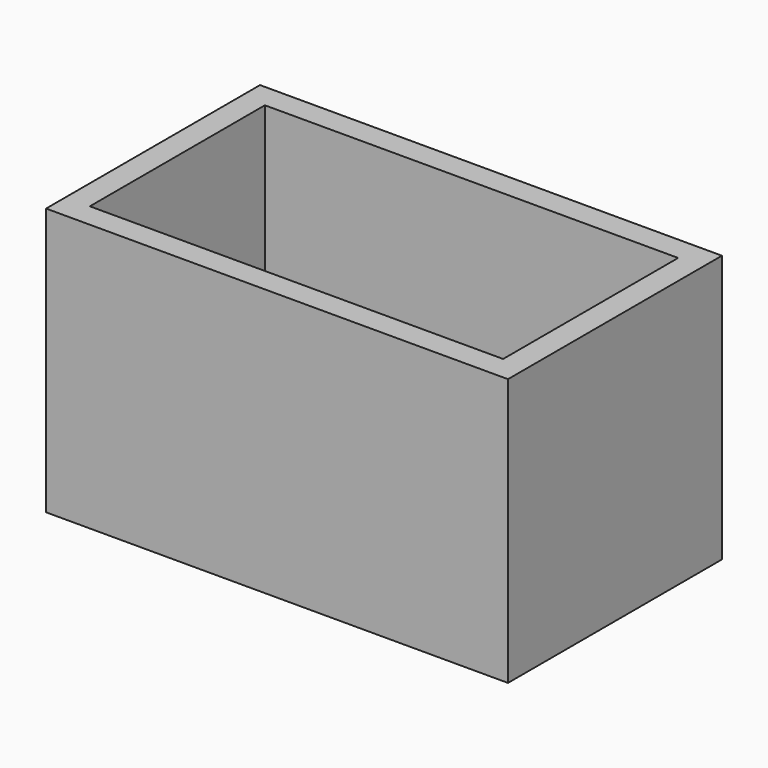
from build123d import *

# Parameters (mm, degrees)
F0_W     = 43.18
F0_H     = 2.54
F0_W_2   = 2.54
F0_H_2   = 22.86
F1_DEPTH = 26.67
F2_W     = 48.26
F2_H     = 27.94
F2_R     = 1.5875
F3_DEPTH = 1.27


with BuildPart() as f1:
    # F0 (on Top) → F1 (new body)
    with BuildSketch(Plane.XY):
        with Locations((-21.59, 26.67)):
            Rectangle(F0_W, F0_H)
        with Locations((-44.45, 26.67)):
            Rectangle(F0_W_2, F0_H)
        with Locations((-44.45, 13.97)):
            Rectangle(F0_W_2, F0_H_2)
        with Locations((-44.45, 1.27)):
            Rectangle(F0_W_2, F0_H)
        with Locations((-21.59, 1.27)):
            Rectangle(F0_W, F0_H)
        with Locations((1.27, 1.27)):
            Rectangle(F0_W_2, F0_H)
        with Locations((1.27, 13.97)):
            Rectangle(F0_W_2, F0_H_2)
        with Locations((1.27, 26.67)):
            Rectangle(F0_W_2, F0_H)
    extrude(amount=F1_DEPTH)

    # F2 (on face) → F3 (join)
    with BuildSketch(Plane(origin=(0, 0, 0), x_dir=(1, 0, 0), z_dir=(0, 0, -1))):
        with Locations((-21.59, -13.97)):
            Rectangle(F2_W, F2_H)
        with Locations((-11.054569, -16.12987)):
            Circle(F2_R, mode=Mode.SUBTRACT)
        with Locations((-21.59, -13.97)):
            Rectangle(F2_W, F2_H)
        with Locations((-11.054569, -16.12987)):
            Circle(F2_R, mode=Mode.SUBTRACT)
    extrude(amount=F3_DEPTH)


solid = f1.part
